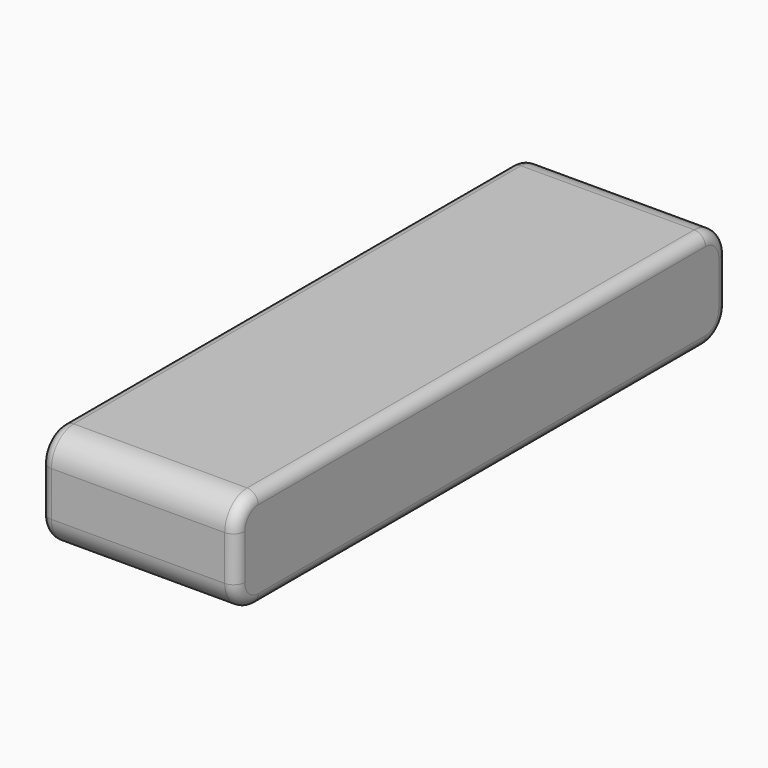
from build123d import *

# Parameters (mm, degrees)
F0_W     = 35
F0_H     = 110
F1_DEPTH = 18
F2_R     = 5
F3_R     = 2


with BuildPart() as f1:
    # F0 (on Top) → F1 (new body)
    with BuildSketch(Plane.XY):
        Rectangle(F0_W, F0_H)
    extrude(amount=F1_DEPTH)

    # F2
    f2_edges = [f1.edges().sort_by_distance(p)[0] for p in [
        (0, 55, 0),
        (0, 55, 18),
        (0, -55, 18),
        (0, -55, 0),
    ]]
    fillet(f2_edges, radius=F2_R)

    # F3
    f3_edges = [f1.edges().sort_by_distance(p)[0] for p in [
        (-17.5, 0, 18),
        (-17.5, 53.535534, 16.535534),
        (17.5, 0, 18),
    ]]
    fillet(f3_edges, radius=F3_R)


solid = f1.part
